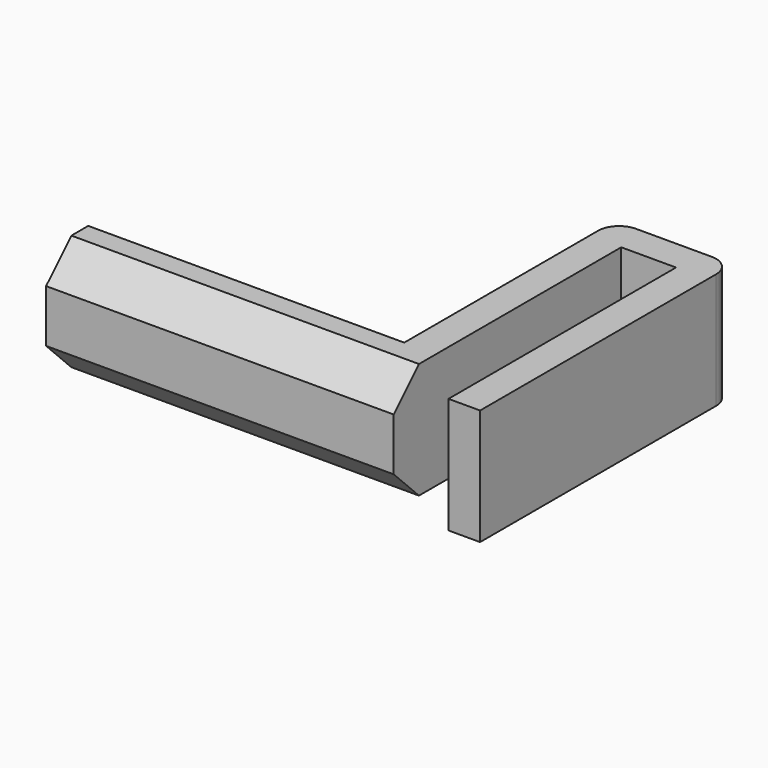
from build123d import *

# Parameters (mm, degrees)
PAD_DEPTH    = 11
CHAMFER_SIZE = 3
FILLET_R     = 2


with BuildPart() as part:
    # Sketch → Pad (new body)
    with BuildSketch(Plane.XY):
        Polygon((-22.735205, -3.599016), (-22.735205, -8.599016), (10.264795, -8.599016), (10.264795, 18.400984), (15.464795, 18.400984), (15.464795, -8.599016), (18.464795, -8.599016), (18.464795, 21.400984), (7.264795, 21.400984), (7.264795, -3.599016), align=None)
    extrude(amount=PAD_DEPTH)

    # Chamfer
    chamfer_edges = [part.edges().sort_by_distance(p)[0] for p in [
        (-6.235205, -8.599016, 0),
        (-6.235205, -8.599016, 11),
    ]]
    chamfer(chamfer_edges, length=CHAMFER_SIZE)

    # Fillet
    fillet_edges = [part.edges().sort_by_distance(p)[0] for p in [
        (18.464795, 21.400984, 5.5),
        (7.264795, 21.400984, 5.5),
    ]]
    fillet(fillet_edges, radius=FILLET_R)


solid = part.part
